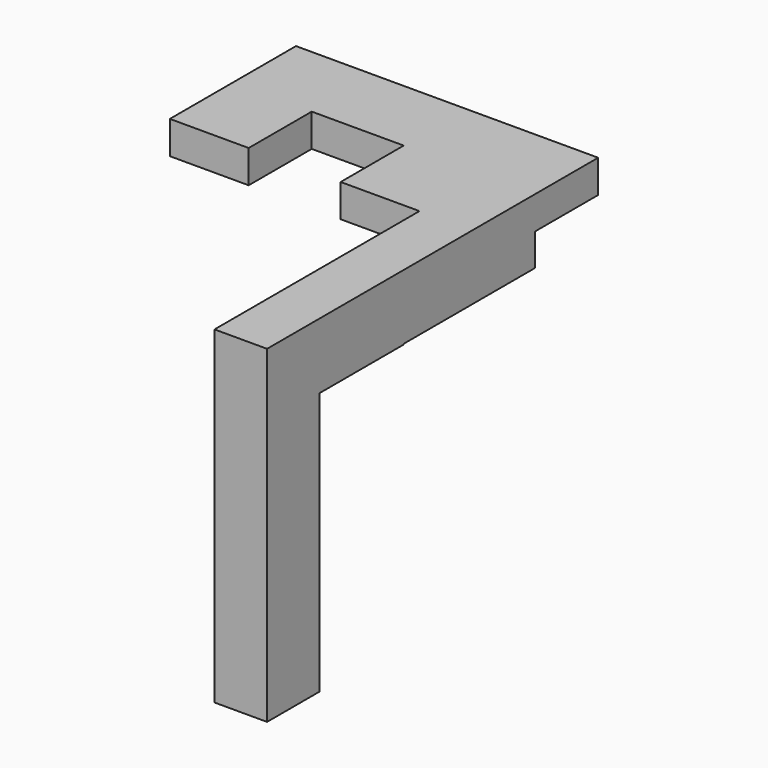
from build123d import *

# Parameters (mm, degrees)
F0_W      = 46
F0_H      = 12
F1_DEPTH  = 5
F2_W      = 8
F2_H      = 50
F3_DEPTH  = 1
F3_FACE_W = 8
F3_FACE_H = 50
F4_DEPTH  = 50
F5_W      = 12
F5_H      = 5
F6_DEPTH  = 12
F7_W      = 12
F7_H      = 5
F8_DEPTH  = 12
F11_W     = 40.896876
F11_H     = 40.029949
F12_DEPTH = 46.001
F13_W     = 8
F13_H     = 40.103398
F14_DEPTH = 25


with BuildPart() as f1:
    # F0 (on Top) → F1 (new body)
    with BuildSketch(Plane.XY):
        Rectangle(F0_W, F0_H)
    extrude(amount=F1_DEPTH)

    # F2 (on face) → F3 (join)
    with BuildSketch(Plane.XZ.offset(6)):
        with Locations((19, -20)):
            Rectangle(F2_W, F2_H)
    extrude(amount=F3_DEPTH)

    # F3_face (on face) → F4 (join)
    with BuildSketch(Plane(origin=(19, -7, -20), x_dir=(1, 0, 0), z_dir=(0, -1, 0))):
        Rectangle(F3_FACE_W, F3_FACE_H)
    extrude(amount=F4_DEPTH)

    # F5 (on face) → F6 (join)
    with BuildSketch(Plane.XZ.offset(6)):
        with Locations((-17, 2.5)):
            Rectangle(F5_W, F5_H)
    extrude(amount=F6_DEPTH)

    # F7 (on face) → F8 (join)
    with BuildSketch(Plane.XZ.offset(6)):
        with Locations((9, 2.5)):
            Rectangle(F7_W, F7_H)
    extrude(amount=F8_DEPTH)

    # F11 (on face) → F12 (cut, through all)
    with BuildSketch(Plane.YZ.offset(23)):
        with Locations((-26.551562, -25.014974)):
            Rectangle(F11_W, F11_H)
    extrude(amount=-F12_DEPTH, mode=Mode.SUBTRACT)

    # F13 (on face) → F14 (cut)
    with BuildSketch(Plane(origin=(0, -6, 0), x_dir=(-1, 0, 0), z_dir=(0, 1, 0))):
        with Locations((-19, -24.948301)):
            Rectangle(F13_W, F13_H)
    extrude(amount=-F14_DEPTH, mode=Mode.SUBTRACT)


solid = f1.part
